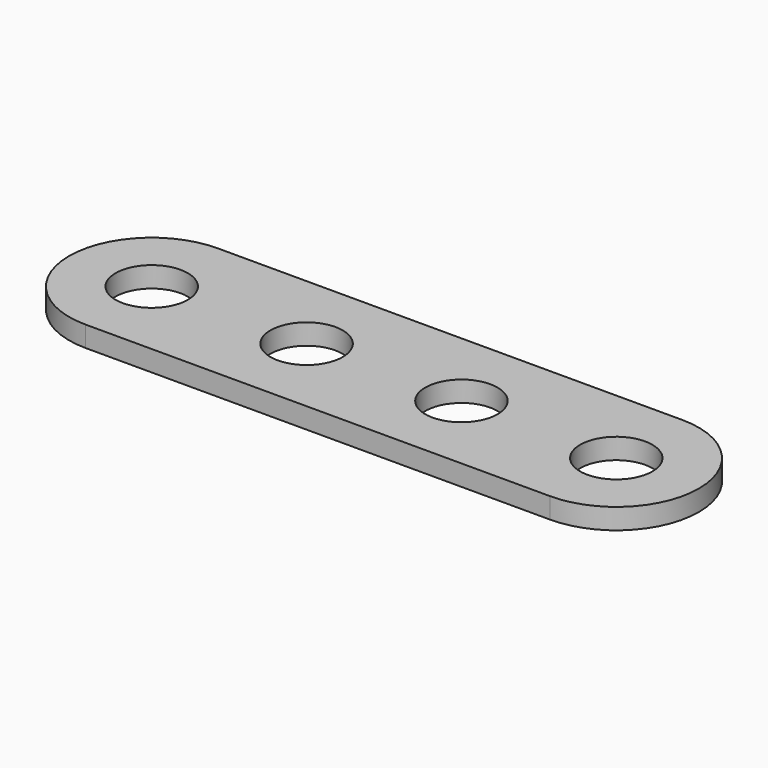
from build123d import *

# Parameters (mm, degrees)
SKETCH_R  = 3.5
PAD_DEPTH = 2


with BuildPart() as part:
    # Sketch → Pad (new body)
    with BuildSketch(Plane.XY):
        with BuildLine():
            ThreePointArc((-22.5, 8), (-30.5, 0), (-22.5, -8))
            Line((-22.5, -8), (22.5, -8))
            ThreePointArc((22.5, -8), (30.5, 0), (22.5, 8))
            Line((-22.5, 8), (22.5, 8))
        make_face()
        with Locations((-22.5, 0)):
            Circle(SKETCH_R, mode=Mode.SUBTRACT)
        with Locations((22.5, 0)):
            Circle(SKETCH_R, mode=Mode.SUBTRACT)
        with Locations((-7.5, 0)):
            Circle(SKETCH_R, mode=Mode.SUBTRACT)
        with Locations((7.5, 0)):
            Circle(SKETCH_R, mode=Mode.SUBTRACT)
    extrude(amount=PAD_DEPTH)


solid = part.part
